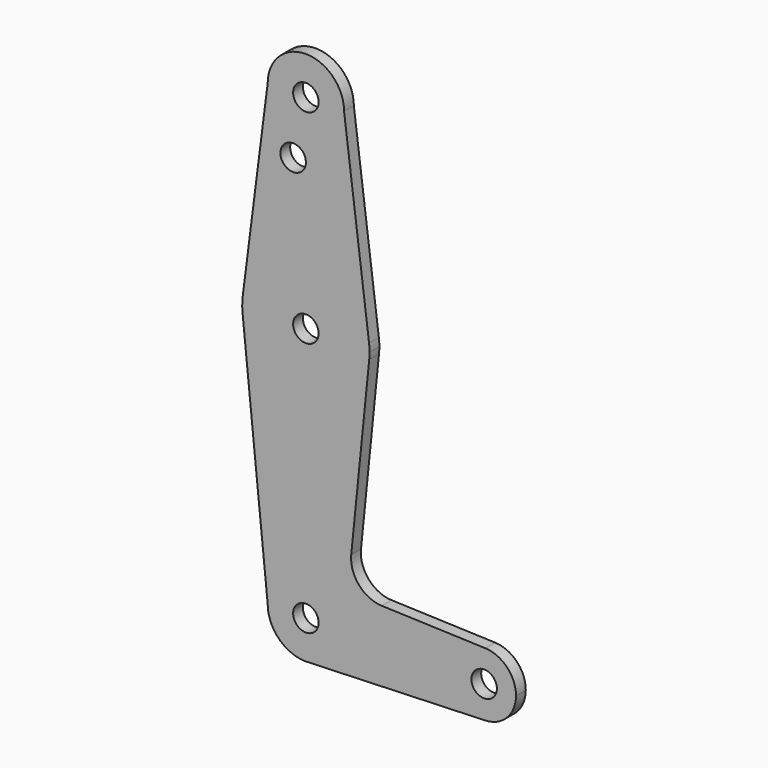
from build123d import *

# Parameters (mm, degrees)
F0_R     = 3.175
F1_DEPTH = 3.048


with BuildPart() as f1:
    # F0 (on Front) → F1 (new body)
    with BuildSketch(Plane.XZ):
        with BuildLine():
            ThreePointArc((-15.7474569047, 65.5082893304), (-15.873667691, 63.7056672947), (-15.7942028036, 61.9003804205))
            ThreePointArc((-15.7942028036, 61.9003804205), (0, 47.625), (15.7942028036, 61.9003804205))
            ThreePointArc((15.7942028036, 61.9003804205), (15.8547878338, 62.6991705884), (15.875, 63.5))
            ThreePointArc((15.875, 63.5), (15.8430821396, 64.5061676396), (15.7474569047, 65.5082893304))
            ThreePointArc((15.7474569047, 65.5082893304), (0, 79.375), (-15.7474569047, 65.5082893304))
        make_face()
        with Locations((0, 63.5)):
            Circle(F0_R, mode=Mode.SUBTRACT)
        with BuildLine():
            Line((-9.525, 114.3), (-15.7474569047, 65.5082893304))
            ThreePointArc((-15.7474569047, 65.5082893304), (0, 79.375), (15.7474569047, 65.5082893304))
            Line((15.7474569047, 65.5082893304), (9.525, 114.3))
            ThreePointArc((9.525, 114.3), (0, 104.775), (-9.525, 114.3))
        make_face()
        with Locations((-3.175, 100.0252)):
            Circle(F0_R, mode=Mode.SUBTRACT)
        with BuildLine():
            ThreePointArc((-9.525, 0), (0, 9.525), (9.525, 0))
            ThreePointArc((9.525, 0), (6.9705567315, -6.4912990883), (0.6773435479, -9.500885786))
            Line((0.6773435479, -9.500885786), (44.7324052746, -7.9324746146))
            ThreePointArc((44.7324052746, -7.9324746146), (36.5125, 0), (44.7324052746, 7.9324746146))
            Line((44.7324052746, 7.9324746146), (18.9341027877, 8.850924033))
            ThreePointArc((18.9341027877, 8.850924033), (13.2249738114, 11.5709798305), (11.3072231466, 17.5971800924))
            Line((11.3072231466, 17.5971800924), (15.7942028036, 61.9003804205))
            ThreePointArc((15.7942028036, 61.9003804205), (0, 47.625), (-15.7942028036, 61.9003804205))
            Line((-15.7942028036, 61.9003804205), (-9.525, 0))
        make_face()
        with BuildLine():
            ThreePointArc((9.525, 114.3), (0, 123.825), (-9.525, 114.3))
            ThreePointArc((-9.525, 114.3), (0, 104.775), (9.525, 114.3))
        make_face()
        with Locations((0, 114.3)):
            Circle(F0_R, mode=Mode.SUBTRACT)
        with BuildLine():
            ThreePointArc((44.7324052746, 7.9324746146), (36.5125, 0), (44.7324052746, -7.9324746146))
            ThreePointArc((44.7324052746, -7.9324746146), (50.1616327839, -5.5119104847), (52.3875, 0))
            ThreePointArc((52.3875, 0), (50.1616327839, 5.5119104847), (44.7324052746, 7.9324746146))
        make_face()
        with Locations((44.45, 0)):
            Circle(F0_R, mode=Mode.SUBTRACT)
        with BuildLine():
            ThreePointArc((0.6773435479, -9.500885786), (6.9705567315, -6.4912990883), (9.525, 0))
            ThreePointArc((9.525, 0), (0, 9.525), (-9.525, 0))
            ThreePointArc((-9.525, 0), (-6.7351920908, -6.7351920908), (0, -9.525))
            Line((0, -9.525), (0.6773435479, -9.500885786))
        make_face()
        Circle(F0_R, mode=Mode.SUBTRACT)
    extrude(amount=F1_DEPTH)


solid = f1.part
